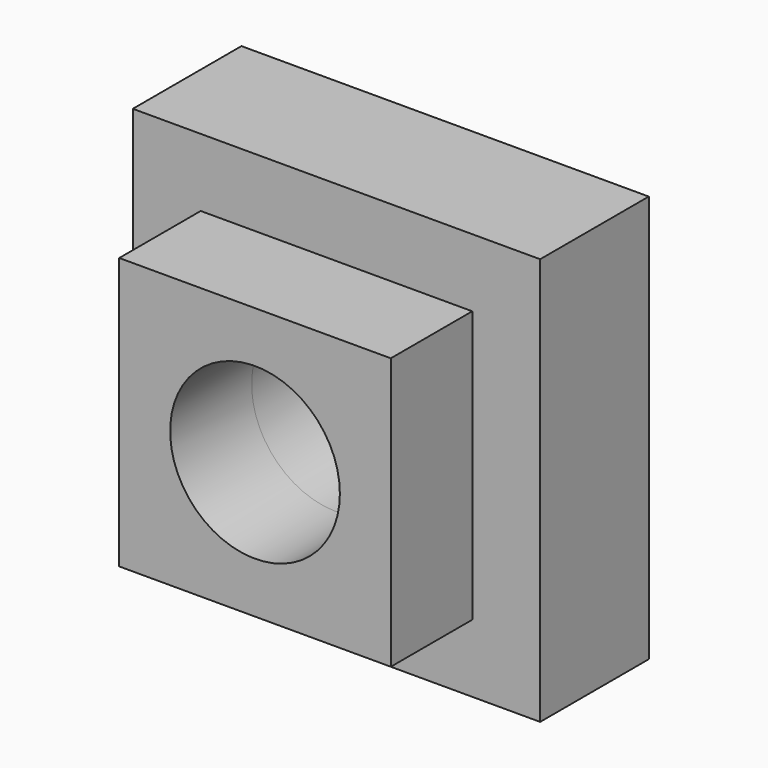
from build123d import *

# Parameters (mm, degrees)
F0_W     = 101.6
F0_H     = 101.6
F0_R     = 31.75
F1_DEPTH = 38.1
F0_W_2   = 152.4
F0_H_2   = 152.4
F2_DEPTH = 50.8


with BuildPart() as f1:
    # F0 (on Front) → F1 (new body)
    with BuildSketch(Plane.XZ):
        Rectangle(F0_W, F0_H)
        Circle(F0_R, mode=Mode.SUBTRACT)
    extrude(amount=F1_DEPTH)

    # F0 (on Front) → F2 (join)
    with BuildSketch(Plane.XZ):
        Rectangle(F0_W_2, F0_H_2)
        Rectangle(F0_W, F0_H, mode=Mode.SUBTRACT)
        Rectangle(F0_W, F0_H)
        Circle(F0_R, mode=Mode.SUBTRACT)
    extrude(amount=-F2_DEPTH)


solid = f1.part
